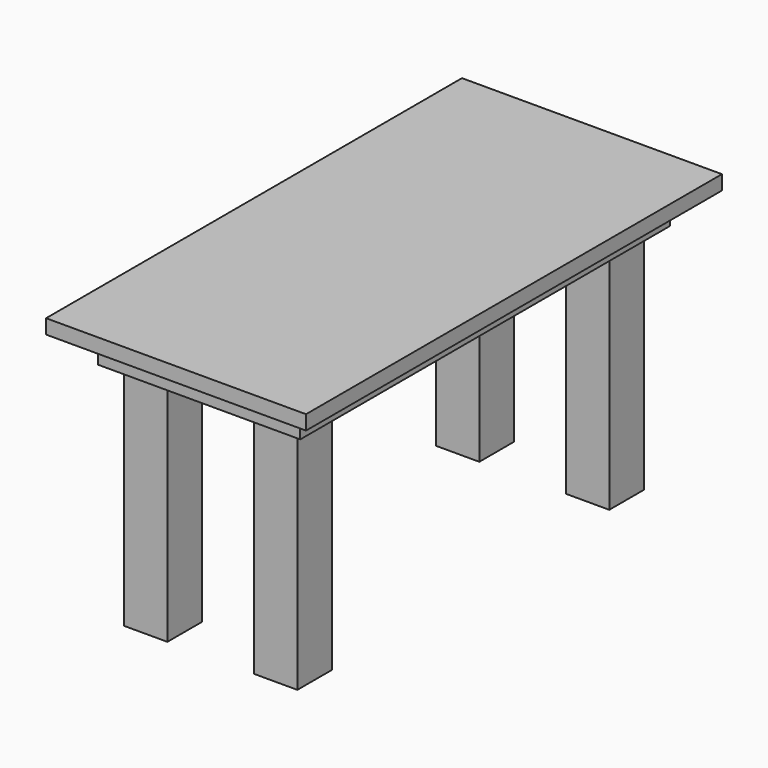
from build123d import *

# Parameters (mm, degrees)
F0_W     = 914.4
F0_H     = 1828.8
F1_DEPTH = 50.8
F2_W     = 711.2
F2_H     = 1625.6
F2_W_2   = 609.6
F2_H_2   = 1524
F3_DEPTH = 101.6
F5_W     = 152.4
F5_H     = 152.4
F4_DEPTH = 914.4


with BuildPart() as f1:
    # F0 (on Top) → F1 (new body)
    with BuildSketch(Plane.XY):
        Rectangle(F0_W, F0_H)
    extrude(amount=-F1_DEPTH)

    # F2 (on face) → F3 (join)
    with BuildSketch(Plane(origin=(0, 0, -50.8), x_dir=(1, 0, 0), z_dir=(0, 0, -1))):
        Rectangle(F2_W, F2_H)
        Rectangle(F2_W_2, F2_H_2, mode=Mode.SUBTRACT)
    extrude(amount=F3_DEPTH)

    # F5 (on face) → F4 (join)
    with BuildSketch(Plane(origin=(0, 0, -50.8), x_dir=(1, 0, 0), z_dir=(0, 0, -1))):
        with Locations((-228.6, -685.8)):
            Rectangle(F5_W, F5_H)
        with Locations((-228.6, 685.8)):
            Rectangle(F5_W, F5_H)
        with Locations((228.6, -685.8)):
            Rectangle(F5_W, F5_H)
        with Locations((228.6, 685.8)):
            Rectangle(F5_W, F5_H)
    extrude(amount=F4_DEPTH)


solid = f1.part
